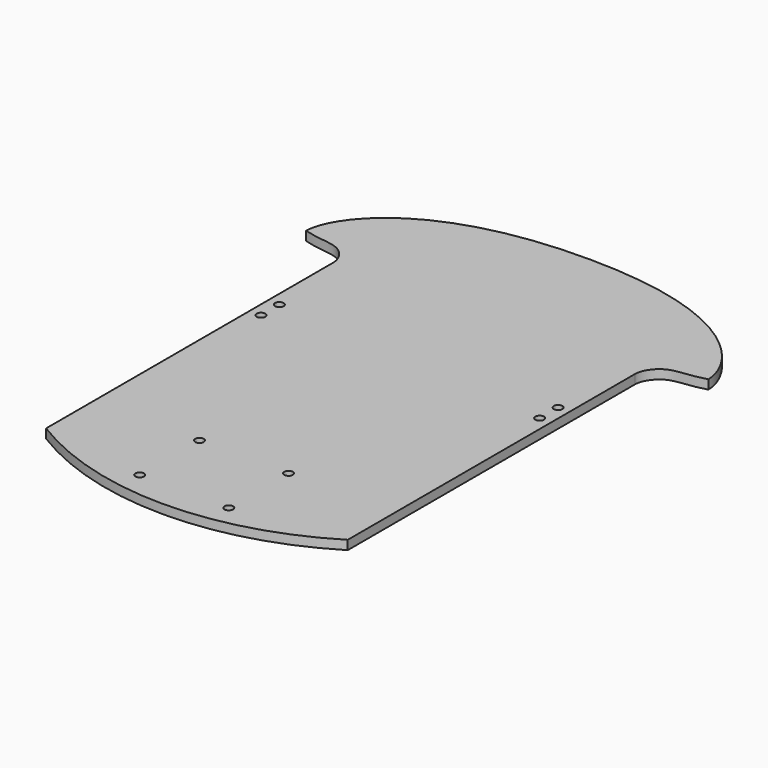
from build123d import *

# Parameters (mm, degrees)
F1_DEPTH = 3.175
F2_R     = 1.5
F3_R     = 1.5
F4_DEPTH = 3.1760001


with BuildPart() as f1:
    # F0 (on Top) → F1 (new body)
    with BuildSketch(Plane.XY):
        with BuildLine():
            Line((52.5, -62.5), (52.5, 62.5))
            add(Edge.make_bspline(
                [(70, 72.5), (64.0537668175, 70.7128232339), (56.9197802082, 71.9611433501), (52.5, 65.1625946688), (52.5, 62.5)],
                knots=[0, 0, 0, 0, 0.5584643924, 1, 1, 1, 1], degree=3))
            add(Edge.make_bspline(
                [(70, 72.5), (70, 82.2165856612), (54.7985807061, 107.5), (0, 107.5)],
                knots=[0, 0, 0, 0, 78.2623792125, 78.2623792125, 78.2623792125, 78.2623792125], degree=3))
            add(Edge.make_bspline(
                [(-70, 72.5), (-70, 82.2165856612), (-54.7985807061, 107.5), (0, 107.5)],
                knots=[0, 0, 0, 0, 78.2623792125, 78.2623792125, 78.2623792125, 78.2623792125], degree=3))
            add(Edge.make_bspline(
                [(-70, 72.5), (-64.0537668175, 70.7128232339), (-56.9197802082, 71.9611433501), (-52.5, 65.1625946688), (-52.5, 62.5)],
                knots=[0, 0, 0, 0, 0.5584643924, 1, 1, 1, 1], degree=3))
            Line((-52.5, 62.5), (-52.5, -62.5))
            ThreePointArc((-52.5, -62.5), (0, -77.3897773473), (52.5, -62.5))
        make_face()
    extrude(amount=F1_DEPTH)

    # F2 (on Top) + F3 (on Top) → F4 (cut, through all)
    with BuildSketch(Plane.XY):
        with Locations((-15.5, -42)):
            Circle(F2_R)
        with Locations((15.5, -42)):
            Circle(F2_R)
        with Locations((-15.5, -68)):
            Circle(F2_R)
        with Locations((15.5, -68)):
            Circle(F2_R)
    with BuildSketch(Plane.XY):
        with Locations((-48.5, 34)):
            Circle(F3_R)
        with Locations((-48.5, 26)):
            Circle(F3_R)
        with Locations((48.5, 26)):
            Circle(F3_R)
        with Locations((48.5, 34)):
            Circle(F3_R)
    extrude(amount=F4_DEPTH, mode=Mode.SUBTRACT)


solid = f1.part
